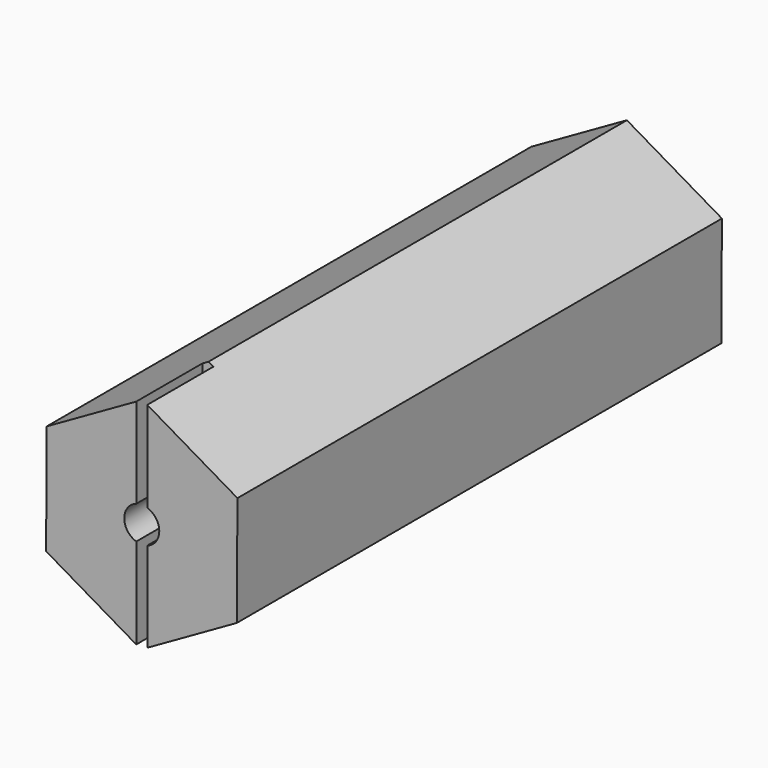
from build123d import *

# Parameters (mm, degrees)
F1_DEPTH = 69.85
F3_DEPTH = 9.525
F5_DEPTH = 9.525


with BuildPart() as f1:
    # F0 (on Front) → F1 (new body)
    with BuildSketch(Plane.XZ):
        Polygon((11.0363666468, 6.2839964384), (0.0760827704, 12.6997721008), (-10.9602838763, 6.4157756624), (-11.0363666468, -6.2839964384), (-0.0760827704, -12.6997721008), (10.9602838763, -6.4157756624), align=None)
    extrude(amount=F1_DEPTH)

    # F2 (on face) → F3 (cut)
    with BuildSketch(Plane.XZ.offset(69.85)):
        Polygon((-0.6350056975, 12.2948854617), (-0.6350056975, 0), (-0.6350056975, -12.372597718), (-0.0760827704, -12.6997721008), (0.634988605, -12.2948951939), (0.634988605, -0.0038041385), (0.634988605, 12.3726077233), (0.0760827704, 12.6997721008), align=None)
    extrude(amount=-F3_DEPTH, mode=Mode.SUBTRACT)

    # F4 (on face) → F5 (cut)
    with BuildSketch(Plane.XZ.offset(69.85)):
        with BuildLine():
            ThreePointArc((0.634988605, -1.9168625307), (1.6370407723, -1.1822309419), (2.0193, 0))
            ThreePointArc((2.0193, 0), (1.6370407723, 1.1822309419), (0.634988605, 1.9168625307))
            Line((0.634988605, 1.9168625307), (0.634988605, -1.9168625307))
        make_face()
        with BuildLine():
            Line((0.634988605, -1.9168625307), (0.634988605, 1.9168625307))
            ThreePointArc((0.634988605, 1.9168625307), (-2.0193, 0), (0.634988605, -1.9168625307))
        make_face()
    extrude(amount=-F5_DEPTH, mode=Mode.SUBTRACT)


solid = f1.part
